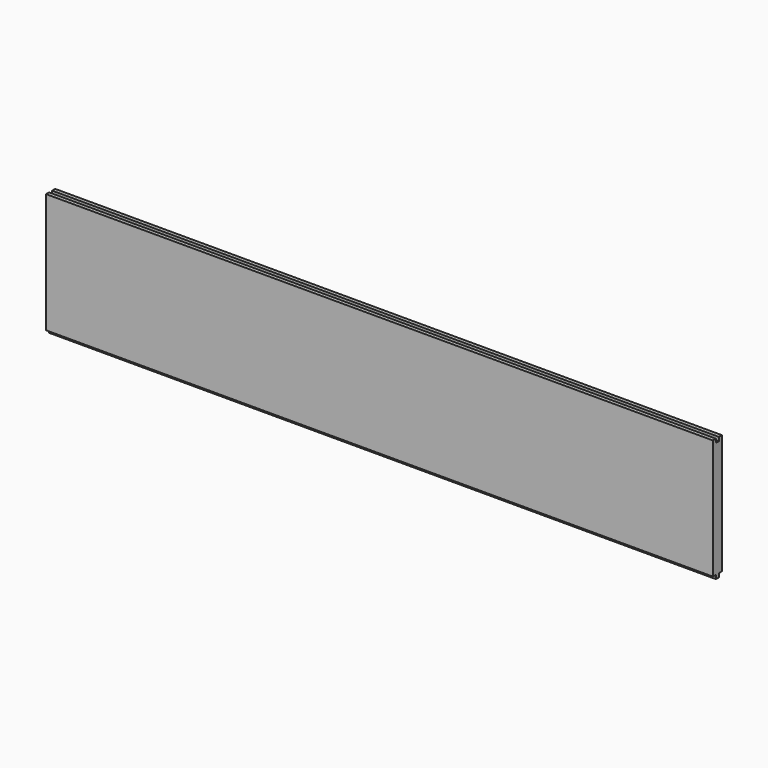
from build123d import *

# Parameters (mm, degrees)
F0_W     = 1116.0125
F0_H     = 207.01
F1_DEPTH = 19.05
F2_W     = 6.35
F2_H     = 6.35
F3_DEPTH = 1116.0135
F4_W     = 6.35
F4_H     = 6.35
F5_DEPTH = 1116.0135


with BuildPart() as f1:
    # F0 (on Front) → F1 (new body)
    with BuildSketch(Plane.XZ):
        with Locations((-41.97727, -399.287407)):
            Rectangle(F0_W, F0_H)
    extrude(amount=F1_DEPTH)

    # F2 (on face) → F3 (cut, through all)
    with BuildSketch(Plane.YZ.offset(516.02898)):
        with Locations((-9.525, -298.957407)):
            Rectangle(F2_W, F2_H)
    extrude(amount=-F3_DEPTH, mode=Mode.SUBTRACT)

    # F4 (on face) → F5 (cut, through all)
    with BuildSketch(Plane.YZ.offset(516.02898)):
        with Locations((-15.875, -499.617407)):
            Rectangle(F4_W, F4_H)
        with Locations((-3.175, -499.617407)):
            Rectangle(F4_W, F4_H)
    extrude(amount=-F5_DEPTH, mode=Mode.SUBTRACT)


solid = f1.part
